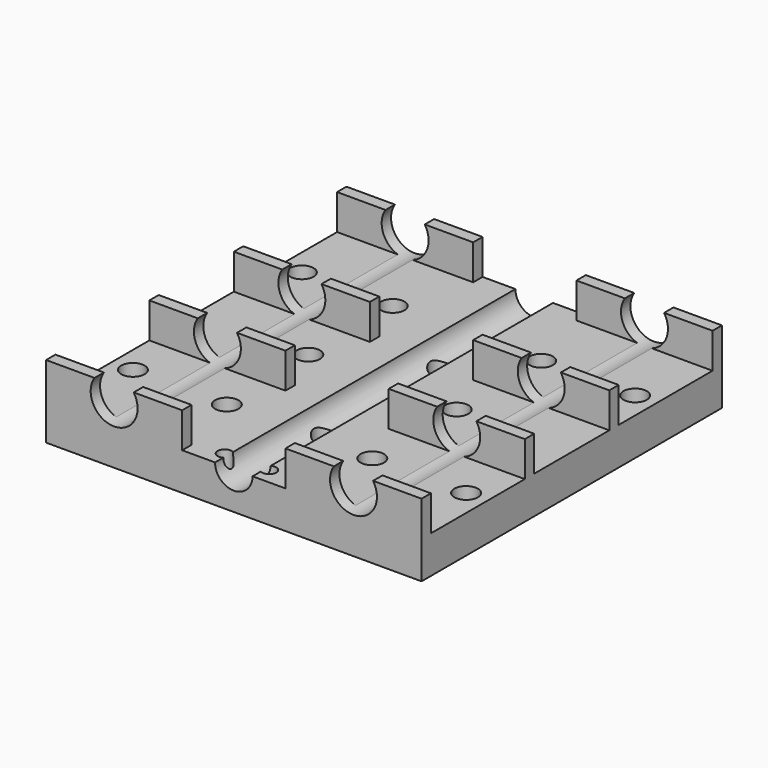
from build123d import *

# Parameters (mm, degrees)
F0_W     = 80
F0_H     = 80
F0_R     = 2.5
F0_R_2   = 1.5
F1_DEPTH = 8
F2_W     = 29
F2_H     = 2.5
F3_DEPTH = 7.5
F5_D     = 10
F7_D     = 8


with BuildPart() as f1:
    # F0 (on Top) → F1 (new body)
    with BuildSketch(Plane.XY):
        Rectangle(F0_W, F0_H)
        with Locations((-35.5, -22.5)):
            Circle(F0_R, mode=Mode.SUBTRACT)
        with Locations((-4.75, -36.5)):
            Circle(F0_R_2, mode=Mode.SUBTRACT)
        with Locations((-15.5, -22.5)):
            Circle(F0_R, mode=Mode.SUBTRACT)
        with Locations((4.75, -36.5)):
            Circle(F0_R_2, mode=Mode.SUBTRACT)
        with Locations((15.5, -22.5)):
            Circle(F0_R, mode=Mode.SUBTRACT)
        with Locations((35.5, -22.5)):
            Circle(F0_R, mode=Mode.SUBTRACT)
        with Locations((0, -15.5)):
            Circle(F0_R, mode=Mode.SUBTRACT)
        with Locations((-16.135083, 0)):
            Circle(F0_R, mode=Mode.SUBTRACT)
        with Locations((-35.5, 22.5)):
            Circle(F0_R, mode=Mode.SUBTRACT)
        with Locations((-16.135083, 22.5)):
            Circle(F0_R, mode=Mode.SUBTRACT)
        with Locations((15.5, 0)):
            Circle(F0_R, mode=Mode.SUBTRACT)
        with Locations((0, 15.5)):
            Circle(F0_R, mode=Mode.SUBTRACT)
        with Locations((15.5, 22.5)):
            Circle(F0_R, mode=Mode.SUBTRACT)
        with Locations((35.5, 22.5)):
            Circle(F0_R, mode=Mode.SUBTRACT)
    extrude(amount=F1_DEPTH)

    # F2 (on face) → F3 (join)
    with BuildSketch(Plane.XY.offset(8)):
        with Locations((-25.5, 38.75)):
            Rectangle(F2_W, F2_H)
        with Locations((25.5, 38.75)):
            Rectangle(F2_W, F2_H)
        with Locations((-25.5, -38.75)):
            Rectangle(F2_W, F2_H)
        with Locations((25.5, -38.75)):
            Rectangle(F2_W, F2_H)
        with Locations((-25.5, -11.25)):
            Rectangle(F2_W, F2_H)
        with Locations((25.5, -11.25)):
            Rectangle(F2_W, F2_H)
        with Locations((-25.5, 11.25)):
            Rectangle(F2_W, F2_H)
        with Locations((25.5, 11.25)):
            Rectangle(F2_W, F2_H)
    extrude(amount=F3_DEPTH)

    # F5 (through all)
    with Locations(Plane(origin=(0, 40, 0), x_dir=(-1, 0, 0), z_dir=(0, 1, 0))):
        with Locations((-25.5, 12.75), (25.5, 12.75)):
            Hole(F5_D / 2)

    # F7 (through all)
    with Locations(Plane(origin=(0, 40, 0), x_dir=(-1, 0, 0), z_dir=(0, 1, 0))):
        with Locations((0, 8)):
            Hole(F7_D / 2)


solid = f1.part
